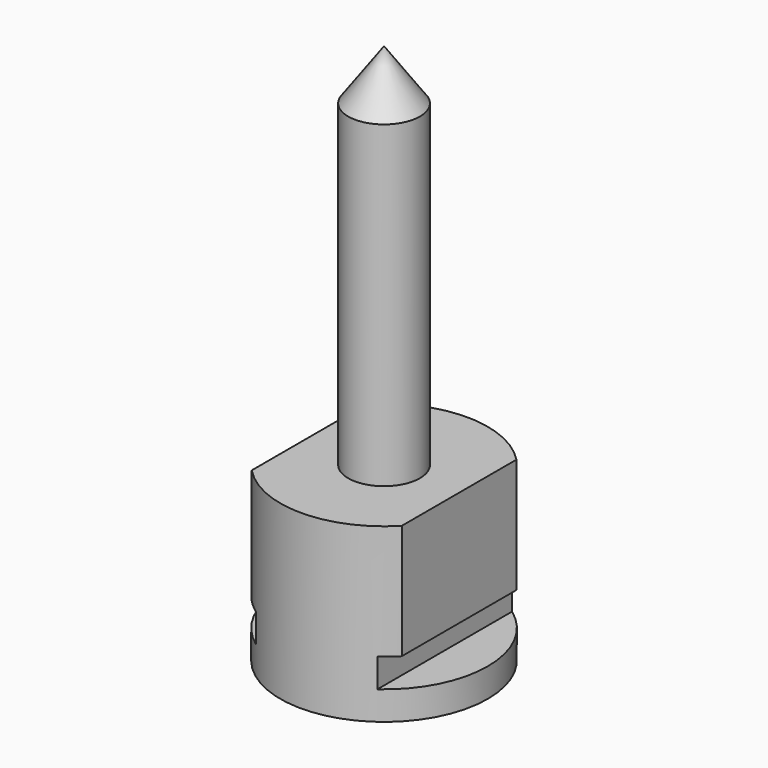
from build123d import *

# Parameters (mm, degrees)
F0_R          = 9.1821
F1_DEPTH      = 15.24
F3_DEPTH      = 9.1831
F3_DEPTH_BACK = 9.1831


with BuildPart() as f1:
    # F0 (on Top) → F1 (new body)
    with BuildSketch(Plane.XY):
        Circle(F0_R)
    extrude(amount=-F1_DEPTH)

    # F2 (on Front) → F3 (cut, two sides)
    with BuildSketch(Plane.XZ) as f3_sk:
        Polygon((-9.1821, 0), (-9.1821, -12.7), (-6.6421, -12.7), (-5.3721, -12.7), (-5.3721, -10.16), (-6.6421, -10.16), (-6.6421, 0), align=None)
        Polygon((9.1821, -12.7), (9.1821, 0), (6.6421, 0), (6.6421, -10.16), (5.3721, -10.16), (5.3721, -12.7), (6.6421, -12.7), align=None)
    extrude(amount=-F3_DEPTH, mode=Mode.SUBTRACT)
    extrude(f3_sk.sketch, amount=F3_DEPTH_BACK, mode=Mode.SUBTRACT)

    # F4 (on Front) → F5 (revolve)
    with BuildSketch(Plane.XZ):
        Polygon((0, 32.639), (0, 0), (3.175, 0), (3.175, 28.1854718924), align=None)
    revolve(axis=Axis((0, 0, 15.3003977612), (0, 0, 1)))


solid = f1.part
